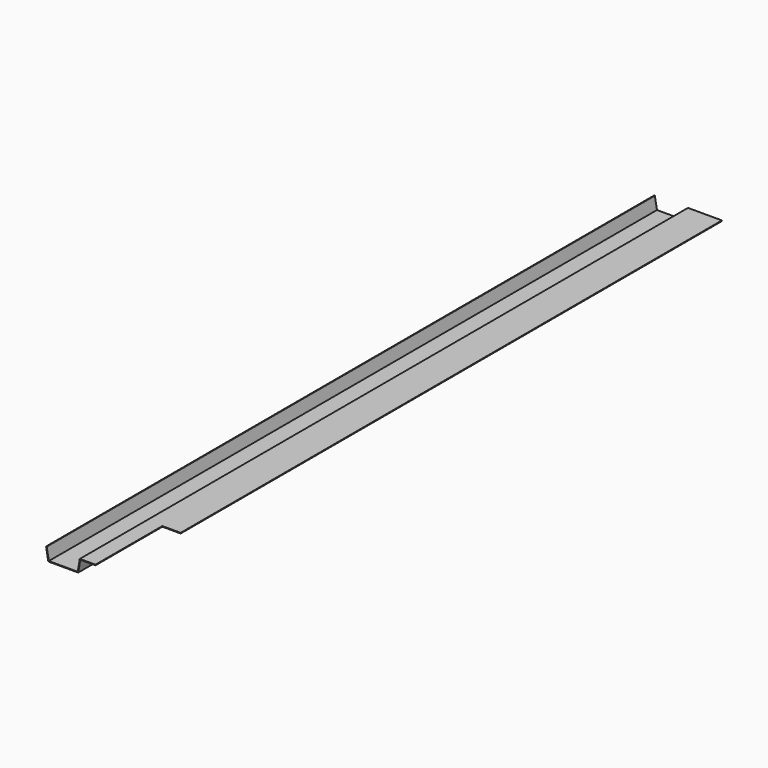
from build123d import *

# Parameters (mm, degrees)
F1_DEPTH = 2500
F2_DEPTH = 50
F3_W     = 60.1930970593
F3_H     = 2
F4_DEPTH = 275


with BuildPart() as f1:
    # F0 (on Front) → F1 (new body)
    with BuildSketch(Plane.XZ):
        Polygon((-47.7612030406, -15.0440340683), (-54.7071301473, 24.3482760522), (-56.7379833711, 24.3482760522), (-49.439402303, -17.0440340683), (48.9169962217, -17.0440340683), (55.8629233284, 22.3482760522), (115.8629233284, 22.3482760522), (115.8629233284, 24.3482760522), (54.1847240661, 24.3482760522), (47.2387969594, -15.0440340683), align=None)
    extrude(amount=F1_DEPTH)

    # F2 (add): a face of the model
    f2_faces = [f1.faces().sort_by_distance(p)[0] for p in [
        (115.8629233284, -1250, 23.3482760522),
    ]]
    extrude(f2_faces, amount=F2_DEPTH)

    # F3 (on face) → F4 (cut)
    with BuildSketch(Plane.XZ.offset(2500)):
        with Locations((135.7663747988, 23.3482760522)):
            Rectangle(F3_W, F3_H)
    extrude(amount=-F4_DEPTH, mode=Mode.SUBTRACT)


solid = f1.part
